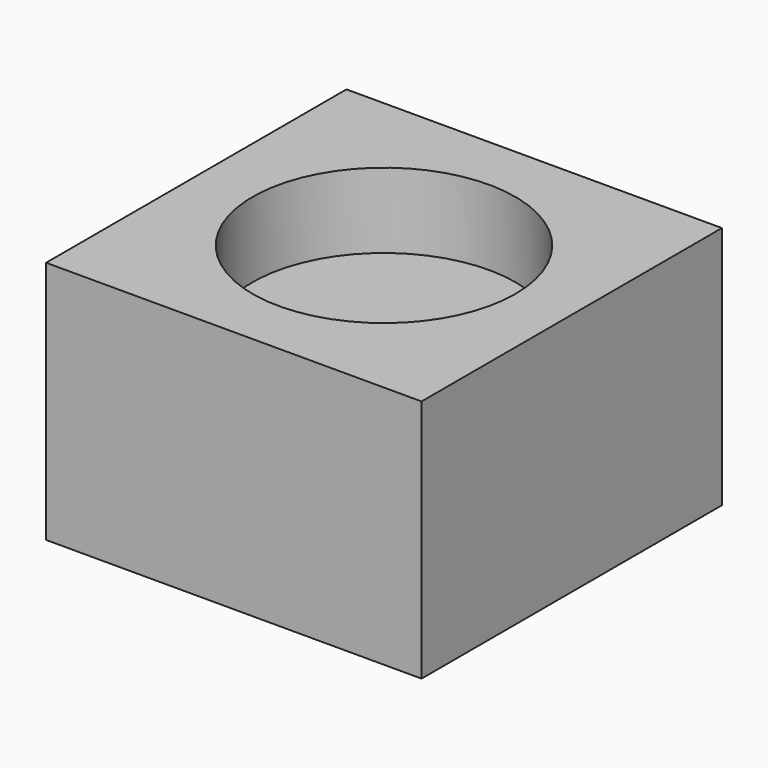
from build123d import *

# Parameters (mm, degrees)
F0_W     = 44.45
F0_H     = 25.4
F1_DEPTH = 63.5


with BuildPart() as f1:
    # F0 (on Front) → F1 (new body, symmetric)
    with BuildSketch(Plane.XZ):
        Polygon((0, 82.55), (-63.5, 82.55), (-63.5, 0), (63.5, 0), (63.5, 82.55), (44.45, 82.55), (44.45, 57.15), (0, 57.15), align=None)
        with Locations((22.225, 69.85)):
            Rectangle(F0_W, F0_H)
    extrude(amount=F1_DEPTH, both=True)

    # F0 (on Front) → F2 (revolve, cut)
    with BuildSketch(Plane.XZ):
        with Locations((22.225, 69.85)):
            Rectangle(F0_W, F0_H)
    revolve(axis=Axis((0, 0, 41.275), (0, 0, 1)), mode=Mode.SUBTRACT)


solid = f1.part
